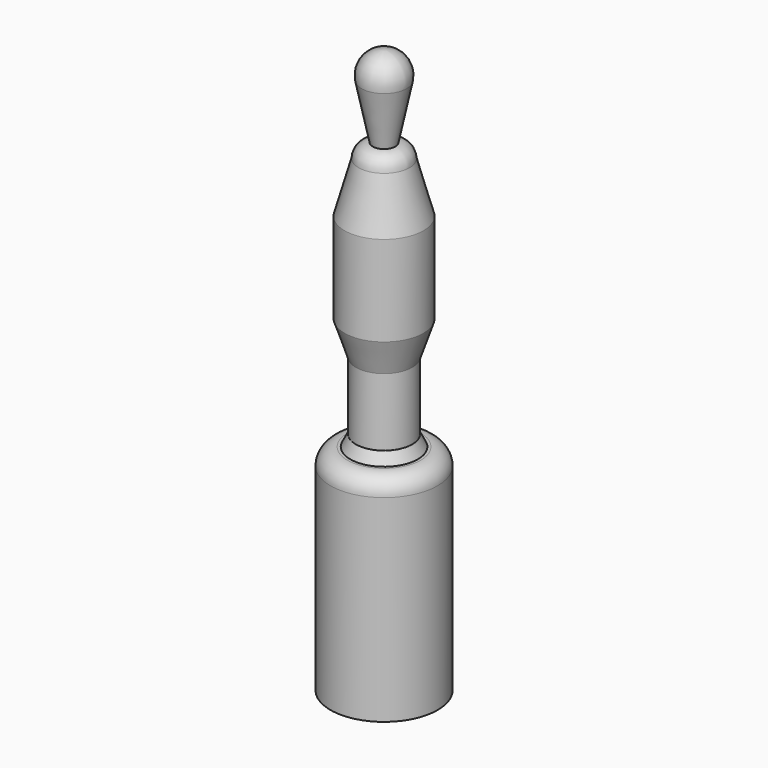
from build123d import *


with BuildPart() as f1:
    # F0 (on Front) → F1 (revolve)
    with BuildSketch(Plane.XZ):
        with BuildLine():
            Line((2, -14.499656), (4, -4.807529))
            ThreePointArc((4, -4.807529), (3.157394, -1.44078), (0, 0))
            Line((0, 0), (0, -100))
            Line((0, -100), (9.5, -100))
            Line((9.5, -100), (9.5, -65))
            ThreePointArc((9.5, -65), (8.62132, -62.87868), (6.5, -62))
            Line((6.5, -62), (6, -62))
            Line((6, -62), (5, -60))
            Line((5, -60), (5, -48))
            Line((5, -48), (7, -42))
            Line((7, -42), (7, -26))
            Line((7, -26), (4.5, -17))
            ThreePointArc((4.5, -17), (3.767889, -15.232011), (2, -14.499656))
        make_face()
    revolve(axis=Axis((0, 0, -50), (0, 0, 1)))


solid = f1.part
